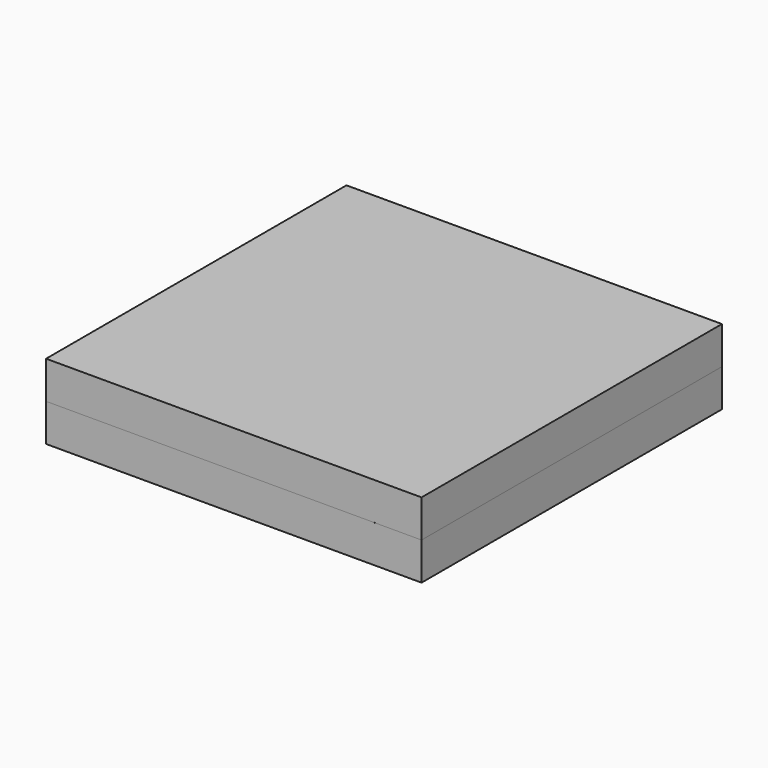
from build123d import *

# Parameters (mm, degrees)
F0_W      = 10
F0_H      = 10
F1_DEPTH  = 1
F1_FACE_W = 10
F1_FACE_H = 10
F2_DEPTH  = 1


with BuildPart() as f1:
    # F0 (on Top) → F1 (new body)
    with BuildSketch(Plane.XY):
        with Locations((5, -1.904621)):
            Rectangle(F0_W, F0_H)
    extrude(amount=F1_DEPTH)


with BuildPart() as f2:
    # F1_face (on face) → F2 (new body)
    with BuildSketch(Plane(origin=(5, -1.904621, 1), x_dir=(1, 0, 0), z_dir=(0, 0, 1))):
        Rectangle(F1_FACE_W, F1_FACE_H)
    extrude(amount=F2_DEPTH)


solid = Compound([f1.part, f2.part])
